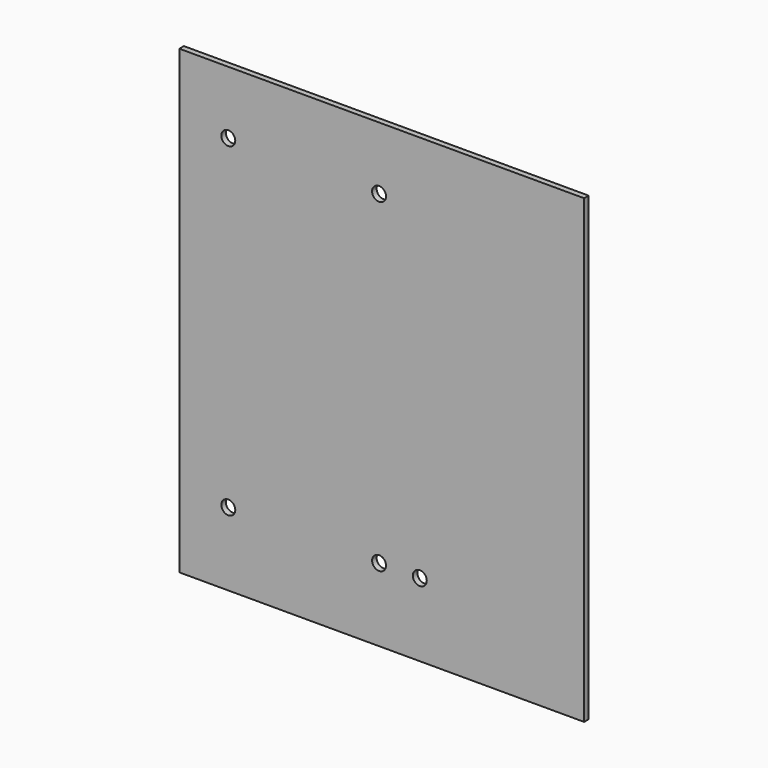
from build123d import *

# Parameters (mm, degrees)
F0_W     = 254
F0_H     = 289.306
F1_DEPTH = 3.556
F2_R     = 4.375282
F3_DEPTH = 25.4
F4_DEPTH = 25.4


with BuildPart() as f1:
    # F0 (on Front) → F1 (new body)
    with BuildSketch(Plane.XZ):
        with Locations((67.888133, 103.692655)):
            Rectangle(F0_W, F0_H)
    extrude(amount=F1_DEPTH)

    # F2 (on face) → F3 (cut)
    with BuildSketch(Plane.XZ.offset(3.556)):
        with Locations((-28.39225, 4.948523)):
            Circle(F2_R)
    extrude(amount=-F3_DEPTH, mode=Mode.SUBTRACT)

    # F2 (on face) → F4 (cut)
    with BuildSketch(Plane.XZ.offset(3.556)):
        with Locations((-28.39225, 4.948523)):
            Circle(F2_R)
        with Locations((-28.39225, 208.903685)):
            Circle(F2_R)
        with Locations((66.210382, 4.948523)):
            Circle(F2_R)
        with Locations((66.210382, 208.903685)):
            Circle(F2_R)
        with Locations((91.772243, 4.948523)):
            Circle(F2_R)
    extrude(amount=-F4_DEPTH, mode=Mode.SUBTRACT)


solid = f1.part
